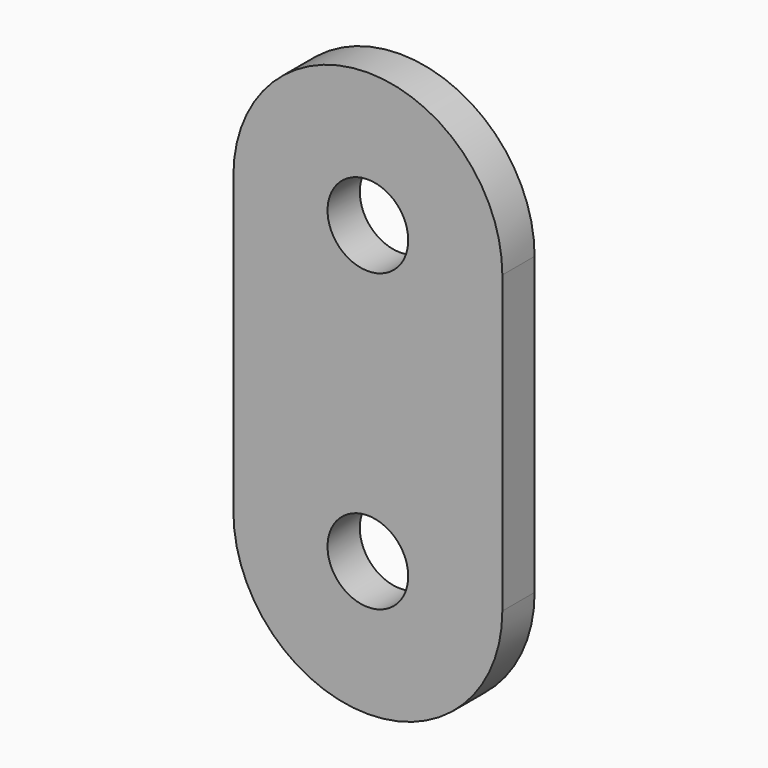
from build123d import *

# Parameters (mm, degrees)
F0_R     = 3
F1_DEPTH = 3


with BuildPart() as f1:
    # F0 (on Front) → F1 (new body)
    with BuildSketch(Plane.XZ):
        with BuildLine():
            Line((10, 0), (10, 11))
            ThreePointArc((10, 11), (0, 1), (-10, 11))
            Line((-10, 11), (-10, 0))
            Line((-10, 0), (10, 0))
        make_face()
        with BuildLine():
            ThreePointArc((-10, 11), (0, 1), (10, 11))
            ThreePointArc((10, 11), (0, 21), (-10, 11))
        make_face()
        with Locations((0, 11)):
            Circle(F0_R, mode=Mode.SUBTRACT)
    extrude(amount=F1_DEPTH)

    # F2: F1 across face


with BuildPart() as f1_1:
    add(f1.part)
    add(f1.part.mirror(Plane(origin=(0, -1.5, 0), x_dir=(1, 0, 0), z_dir=(0, 0, -1))))


solid = f1_1.part
